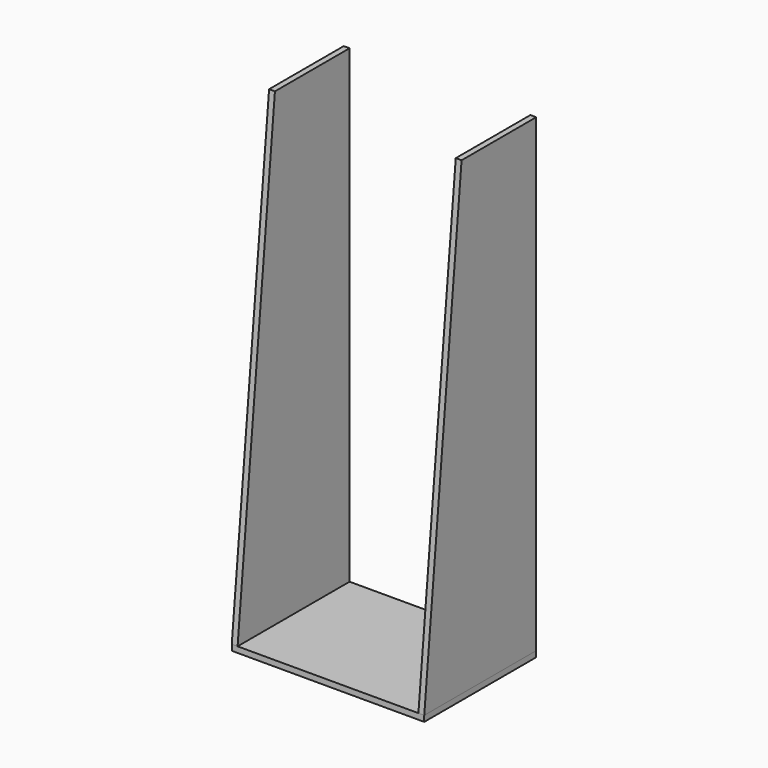
from build123d import *

# Parameters (mm, degrees)
F1_DEPTH = 19.05
F3_W     = 628.65
F3_H     = 457.2
F4_DEPTH = 19.05


with BuildPart() as f1:
    # F0 (on Right) → F1 (new body)
    with BuildSketch(Plane.YZ):
        Polygon((152.4, 1533.725465), (0, 0), (457.2, 0), (457.2, 1533.725465), align=None)
    extrude(amount=F1_DEPTH)


with BuildPart() as f2_1:
    # F2: copy of F1
    add(f1.part.moved(Location((609.6, 0, 0))))


with BuildPart() as f4:
    # F3 (on Top) → F4 (new body)
    with BuildSketch(Plane.XY):
        with Locations((314.325, 228.6)):
            Rectangle(F3_W, F3_H)
    extrude(amount=-F4_DEPTH)


solid = Compound([f1.part, f2_1.part, f4.part])
